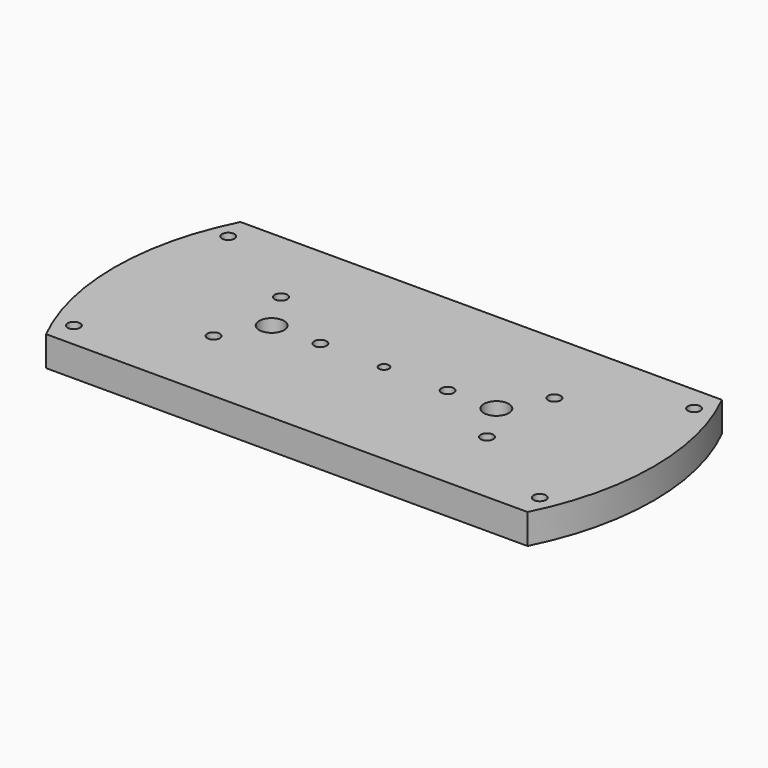
from build123d import *

# Parameters (mm, degrees)
SKETCH001_R   = 2.5
SKETCH001_R_2 = 5
SKETCH001_R_3 = 2
PAD_DEPTH     = 12


with BuildPart() as part:
    # Sketch001 → Pad (new body)
    with BuildSketch(Plane(origin=(0, 0, 0), x_dir=(1, 0, 0), z_dir=(0, 0, -1))):
        with BuildLine():
            Line((-96.421355, 48.651027), (96.421355, 48.651027))
            ThreePointArc((96.421355, -48.651027), (108, 0), (96.421355, 48.651027))
            Line((96.421355, -48.651027), (-96.421355, -48.651027))
            ThreePointArc((-96.421355, 48.651027), (-108, 0), (-96.421355, -48.651027))
        make_face()
        with Locations((93.311833, 38.651027)):
            Circle(SKETCH001_R, mode=Mode.SUBTRACT)
        with Locations((93.311833, -38.651027)):
            Circle(SKETCH001_R, mode=Mode.SUBTRACT)
        with Locations((-93.311833, 38.651027)):
            Circle(SKETCH001_R, mode=Mode.SUBTRACT)
        with Locations((-93.311833, -38.651027)):
            Circle(SKETCH001_R, mode=Mode.SUBTRACT)
        with Locations((-45, 0)):
            Circle(SKETCH001_R_2, mode=Mode.SUBTRACT)
        with Locations((45, 0)):
            Circle(SKETCH001_R_2, mode=Mode.SUBTRACT)
        with Locations((54.75, 16.887495)):
            Circle(SKETCH001_R, mode=Mode.SUBTRACT)
        with Locations((25.5, 0)):
            Circle(SKETCH001_R, mode=Mode.SUBTRACT)
        with Locations((54.75, -16.887495)):
            Circle(SKETCH001_R, mode=Mode.SUBTRACT)
        with Locations((-54.75, 16.887495)):
            Circle(SKETCH001_R, mode=Mode.SUBTRACT)
        with Locations((-25.5, 0)):
            Circle(SKETCH001_R, mode=Mode.SUBTRACT)
        with Locations((-54.75, -16.887495)):
            Circle(SKETCH001_R, mode=Mode.SUBTRACT)
        Circle(SKETCH001_R_3, mode=Mode.SUBTRACT)
    extrude(amount=PAD_DEPTH)


solid = part.part
